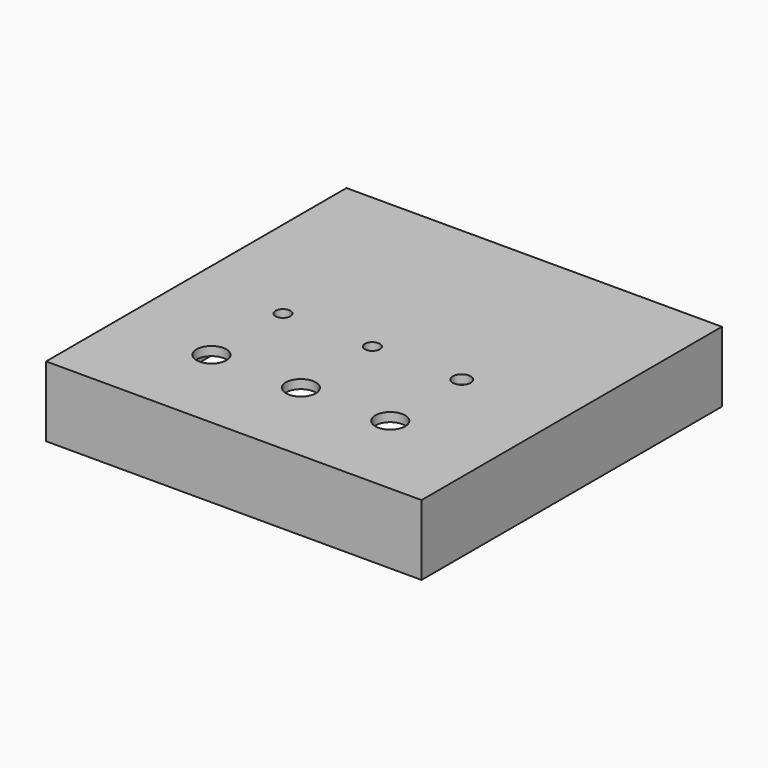
from build123d import *

# Parameters (mm, degrees)
F0_W     = 160.02
F0_H     = 160.02
F1_DEPTH = 29.972
F3_DEPTH = 26.162
F4_R     = 6.35
F4_R_2   = 3.81
F4_R_3   = 3.175
F5_DEPTH = 6.35


with BuildPart() as f1:
    # F0 (on Top) → F1 (new body)
    with BuildSketch(Plane.XY):
        with Locations((80.01, 80.01)):
            Rectangle(F0_W, F0_H)
    extrude(amount=-F1_DEPTH)

    # F2 (on face) → F3 (cut)
    with BuildSketch(Plane(origin=(0, 0, -29.972), x_dir=(1, 0, 0), z_dir=(0, 0, -1))):
        Polygon((18.923, -25.4), (4.445, -25.4), (4.445, -134.62), (18.923, -134.62), (18.923, -155.575), (141.097, -155.575), (141.097, -134.62), (155.575, -134.62), (155.575, -25.4), (141.097, -25.4), (141.097, -4.445), (18.923, -4.445), align=None)
    extrude(amount=-F3_DEPTH, mode=Mode.SUBTRACT)

    # F4 (on face) → F5 (cut)
    with BuildSketch(Plane.XY):
        with Locations((40.005, 38.1)):
            Circle(F4_R)
        with Locations((78.105, 38.1)):
            Circle(F4_R)
        with Locations((116.205, 38.1)):
            Circle(F4_R)
        with Locations((116.205, 76.2)):
            Circle(F4_R_2)
        with Locations((78.105, 76.2)):
            Circle(F4_R_3)
        with Locations((40.005, 76.2)):
            Circle(F4_R_3)
    extrude(amount=-F5_DEPTH, mode=Mode.SUBTRACT)


solid = f1.part
